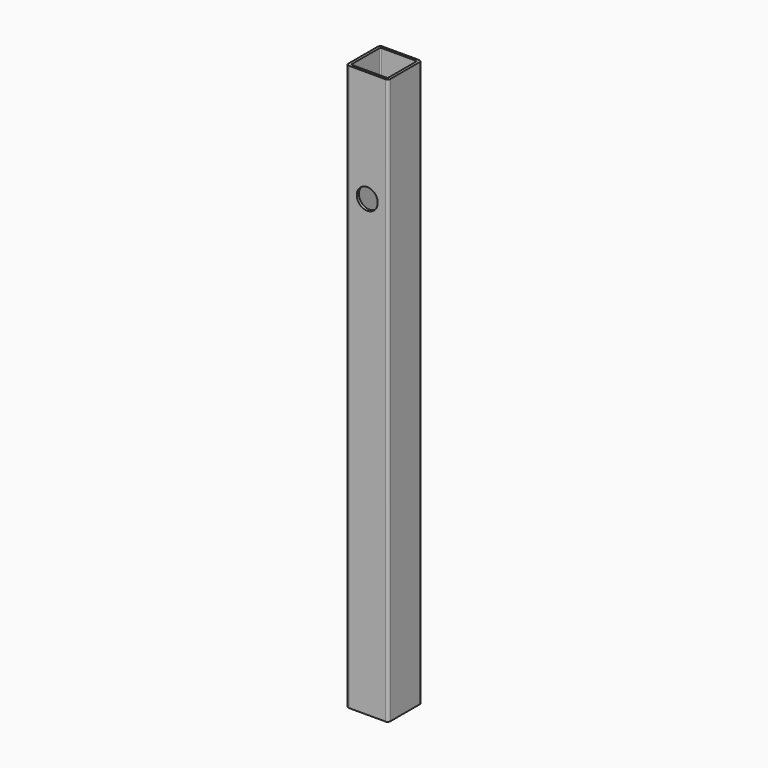
from build123d import *

# Parameters (mm, degrees)
F1_DEPTH = 1371.6
F2_R     = 25.4
F3_DEPTH = 6.35
F4_R     = 25.4
F5_DEPTH = 6.35


with BuildPart() as f1:
    # F0 (on Top) → F1 (new body)
    with BuildSketch(Plane.XY):
        with BuildLine():
            Line((44.45, 50.8), (-44.45, 50.8))
            ThreePointArc((-44.45, 50.8), (-48.940128, 48.940128), (-50.8, 44.45))
            Line((-50.8, 44.45), (-50.8, -44.45))
            ThreePointArc((-50.8, -44.45), (-48.940128, -48.940128), (-44.45, -50.8))
            Line((-44.45, -50.8), (44.45, -50.8))
            ThreePointArc((44.45, -50.8), (48.940128, -48.940128), (50.8, -44.45))
            Line((50.8, -44.45), (50.8, 44.45))
            ThreePointArc((50.8, 44.45), (48.940128, 48.940128), (44.45, 50.8))
        make_face()
        with BuildLine():
            ThreePointArc((-44.45, 41.275), (-43.520064, 43.520064), (-41.275, 44.45))
            Line((-41.275, 44.45), (41.275, 44.45))
            ThreePointArc((41.275, 44.45), (43.520064, 43.520064), (44.45, 41.275))
            Line((44.45, 41.275), (44.45, -41.275))
            ThreePointArc((44.45, -41.275), (43.520064, -43.520064), (41.275, -44.45))
            Line((41.275, -44.45), (-41.275, -44.45))
            ThreePointArc((-41.275, -44.45), (-43.520064, -43.520064), (-44.45, -41.275))
            Line((-44.45, -41.275), (-44.45, 41.275))
        make_face(mode=Mode.SUBTRACT)
    extrude(amount=F1_DEPTH)

    # F2 (on face) → F3 (cut, through all)
    with BuildSketch(Plane(origin=(0, 50.8, 0), x_dir=(-1, 0, 0), z_dir=(0, 1, 0))):
        with Locations((0, 644.525)):
            Circle(F2_R)
        with Locations((0, 44.45)):
            Circle(F2_R)
    extrude(amount=-F3_DEPTH, mode=Mode.SUBTRACT)

    # F4 (on face) → F5 (cut, through all)
    with BuildSketch(Plane.XZ.offset(50.8)):
        with Locations((0, 1101.725)):
            Circle(F4_R)
    extrude(amount=-F5_DEPTH, mode=Mode.SUBTRACT)


solid = f1.part
